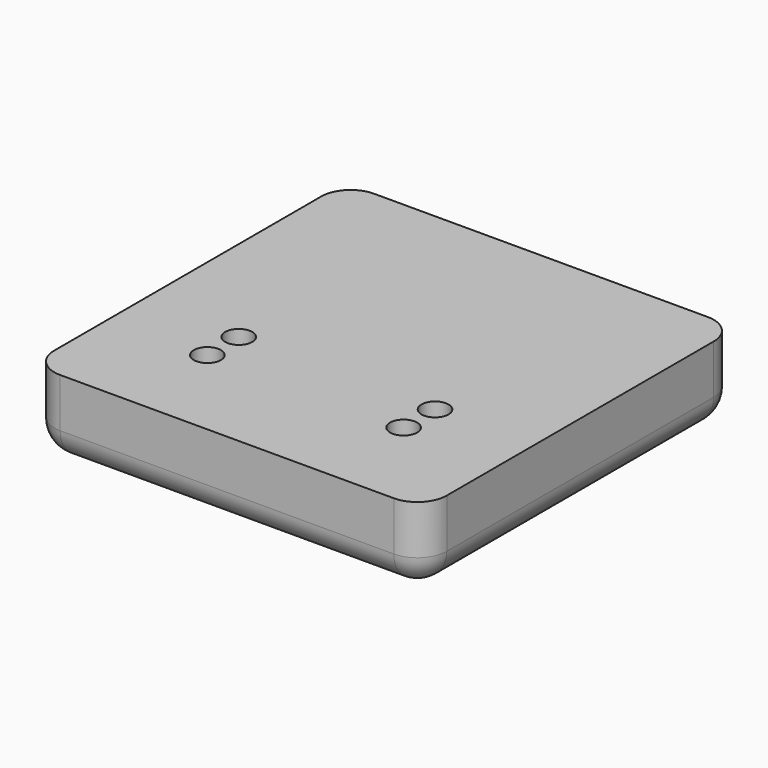
from build123d import *

# Parameters (mm, degrees)
F0_R     = 1.7526
F1_DEPTH = 10.16
F2_DEPTH = 7.62
F3_R     = 6.1
F4_DEPTH = 3.2
F5_R     = 3.81


with BuildPart() as f1:
    # F0 (on Top) → F1 (new body)
    with BuildSketch(Plane.XY):
        with BuildLine():
            ThreePointArc((0, 3.81), (1.1159231637, 1.1159231637), (3.81, 0))
            Line((3.81, 0), (46.99, 0))
            ThreePointArc((46.99, 0), (49.6840768363, 1.1159231637), (50.8, 3.81))
            Line((50.8, 3.81), (50.8, 46.99))
            ThreePointArc((50.8, 46.99), (49.6840768363, 49.6840768363), (46.99, 50.8))
            Line((46.99, 50.8), (3.81, 50.8))
            ThreePointArc((3.81, 50.8), (1.1159231637, 49.6840768363), (0, 46.99))
            Line((0, 46.99), (0, 3.81))
        make_face()
        with Locations((12.7, 12.7)):
            Circle(F0_R, mode=Mode.SUBTRACT)
        with Locations((12.7, 17.78)):
            Circle(F0_R, mode=Mode.SUBTRACT)
        with Locations((38.1, 12.7)):
            Circle(F0_R, mode=Mode.SUBTRACT)
        with Locations((38.1, 17.78)):
            Circle(F0_R, mode=Mode.SUBTRACT)
        with Locations((12.7, 17.78)):
            Circle(F0_R)
        with Locations((38.1, 17.78)):
            Circle(F0_R)
        with Locations((12.7, 12.7)):
            Circle(F0_R)
        with Locations((38.1, 12.7)):
            Circle(F0_R)
    extrude(amount=-F1_DEPTH)

    # F0 (on Top) → F2 (cut)
    with BuildSketch(Plane.XY):
        with Locations((12.7, 17.78)):
            Circle(F0_R)
        with Locations((38.1, 17.78)):
            Circle(F0_R)
        with Locations((38.1, 12.7)):
            Circle(F0_R)
        with Locations((12.7, 12.7)):
            Circle(F0_R)
    extrude(amount=-F2_DEPTH, mode=Mode.SUBTRACT)

    # F3 (on face) → F4 (cut)
    with BuildSketch(Plane(origin=(0, 0, -10.16), x_dir=(1, 0, 0), z_dir=(0, 0, -1))):
        with Locations((25.4, -25.4)):
            Circle(F3_R)
    extrude(amount=-F4_DEPTH, mode=Mode.SUBTRACT)

    # F5
    f5_edges = [f1.edges().sort_by_distance(p)[0] for p in [
        (25.4, 0, -10.16),
    ]]
    fillet(f5_edges, radius=F5_R)


solid = f1.part
